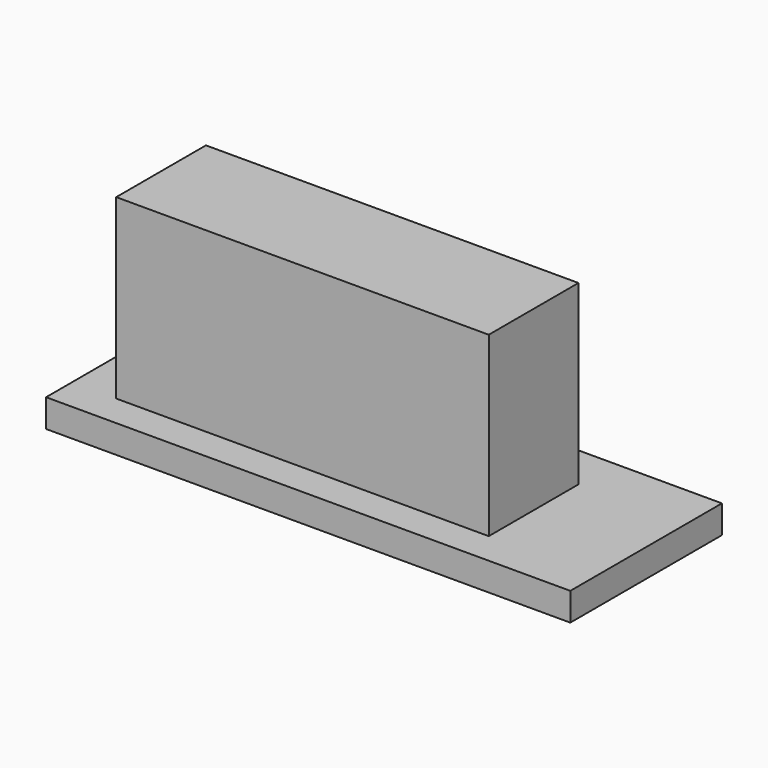
from build123d import *

# Parameters (mm, degrees)
F0_W     = 253.456043
F0_H     = 76.289
F1_DEPTH = 139.7
F0_W_2   = 356.663674
F0_H_2   = 128.946438
F2_DEPTH = 19.05


with BuildPart() as f1:
    # F0 (on Top) → F1 (new body)
    with BuildSketch(Plane.XY):
        with Locations((156.799115, -68.734861)):
            Rectangle(F0_W, F0_H)
    extrude(amount=F1_DEPTH)

    # F0 (on Top) → F2 (join)
    with BuildSketch(Plane.XY):
        with Locations((178.331837, -64.473219)):
            Rectangle(F0_W_2, F0_H_2)
        with Locations((156.799115, -68.734861)):
            Rectangle(F0_W, F0_H, mode=Mode.SUBTRACT)
    extrude(amount=F2_DEPTH)


solid = f1.part
